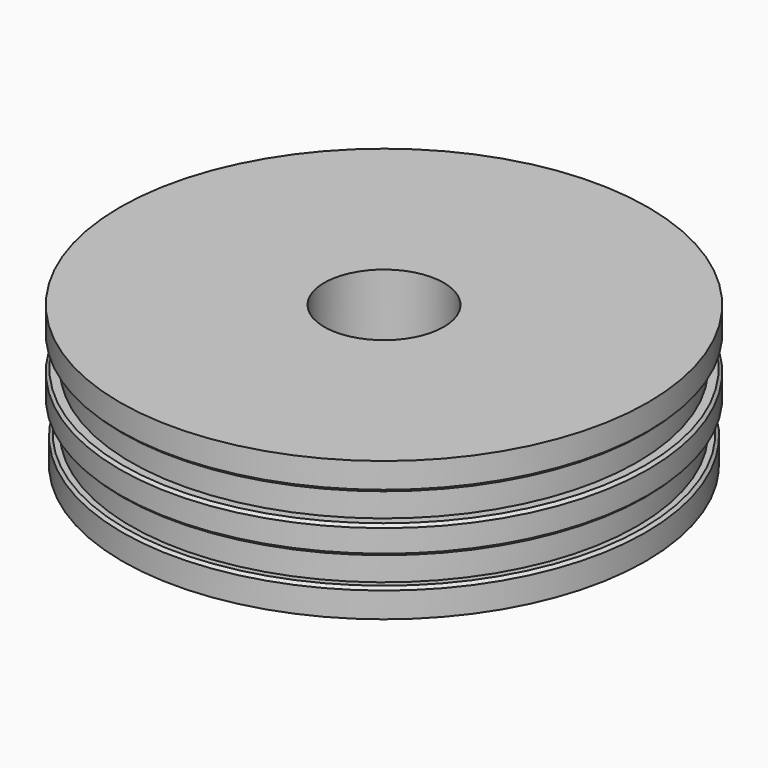
from build123d import *

# Parameters (mm, degrees)
F2_SIZE = 0.2


with BuildPart() as f1:
    # F0 (on Front) → F1 (revolve)
    with BuildSketch(Plane.XZ):
        Polygon((18.78026, 9.463674), (4.25, 9.463674), (4.25, -0.536326), (18.605828, -0.536326), (18.605828, 1.463674), (18, 1.463674), (18, 3.463674), (18.78026, 3.463674), (18.78026, 5.463674), (18, 5.463674), (18, 7.463674), (18.78026, 7.463674), align=None)
    revolve(axis=Axis((0, 0, 5.491236), (0, 0, 1)))

    # F2
    f2_edges = [f1.edges().sort_by_distance(p)[0] for p in [
        (-18.78026, 0, 7.463674),
        (-18.78026, 0, 3.463674),
        (-18.605828, 0, 1.463674),
        (-18.78026, 0, 5.463674),
    ]]
    chamfer(f2_edges, length=F2_SIZE)


solid = f1.part
